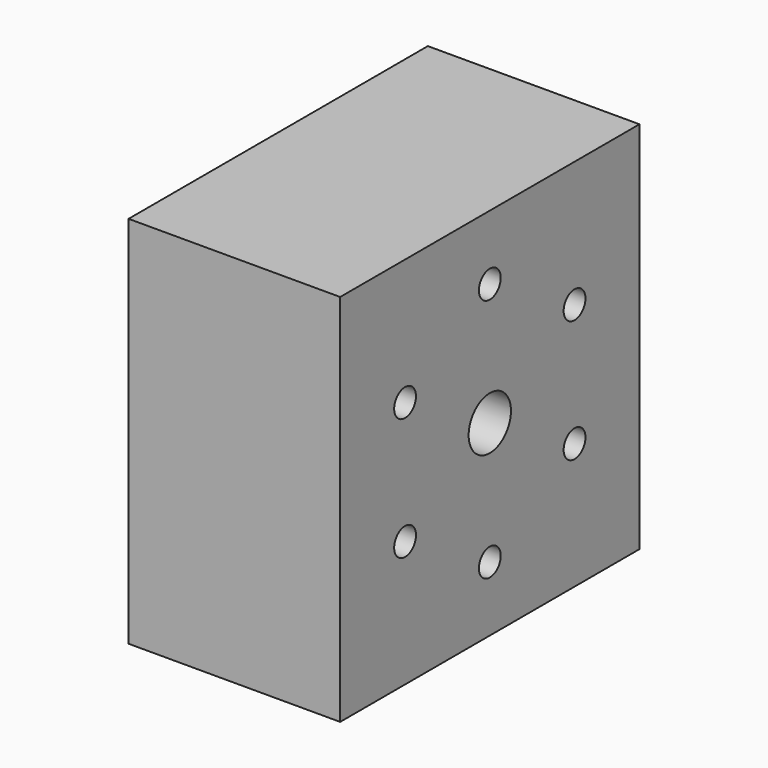
from build123d import *

# Parameters (mm, degrees)
F0_W     = 44.90128
F0_H     = 44.90128
F0_R     = 1.6383
F0_R_2   = 3.175
F1_DEPTH = 12.7


with BuildPart() as f1:
    # F0 (on Right) → F1 (new body, symmetric)
    with BuildSketch(Plane.YZ):
        Rectangle(F0_W, F0_H)
        with Locations((-12.714292, -7.3406)):
            Circle(F0_R, mode=Mode.SUBTRACT)
        with Locations((0, -14.6812)):
            Circle(F0_R, mode=Mode.SUBTRACT)
        with Locations((12.714292, -7.3406)):
            Circle(F0_R, mode=Mode.SUBTRACT)
        with Locations((-12.714292, 7.3406)):
            Circle(F0_R, mode=Mode.SUBTRACT)
        Circle(F0_R_2, mode=Mode.SUBTRACT)
        with Locations((12.714292, 7.3406)):
            Circle(F0_R, mode=Mode.SUBTRACT)
        with Locations((0, 14.6812)):
            Circle(F0_R, mode=Mode.SUBTRACT)
    extrude(amount=F1_DEPTH, both=True)


solid = f1.part
